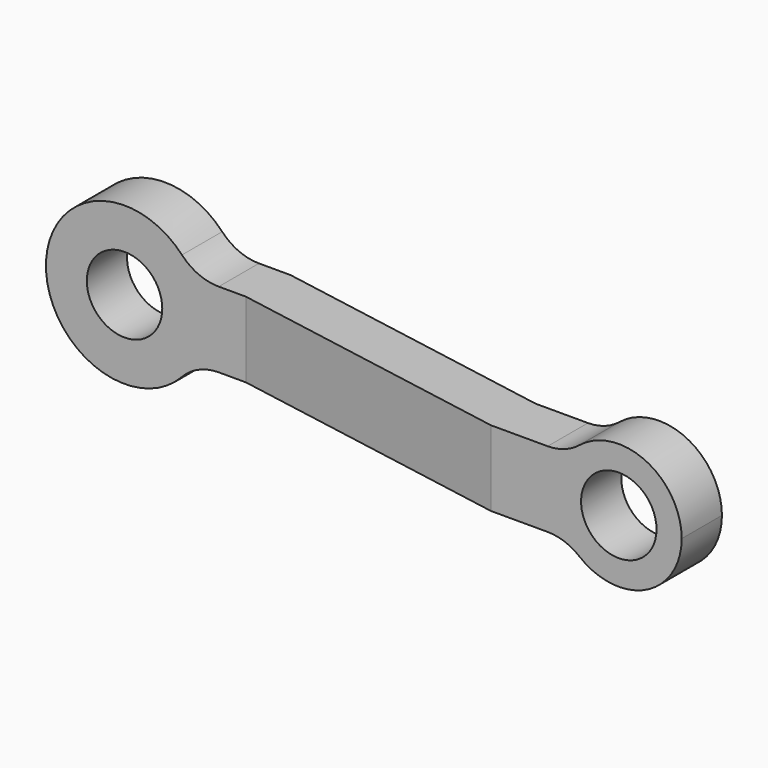
from build123d import *

# Parameters (mm, degrees)
F0_R     = 6
F1_DEPTH = 25
F3_DEPTH = 12.5
F4_R     = 8


with BuildPart() as f1:
    # F0 (on Front) → F1 (new body)
    with BuildSketch(Plane.XZ):
        with BuildLine():
            ThreePointArc((10.965856, -6), (12.110392, -3.096514), (12.5, 0))
            ThreePointArc((12.5, 0), (12.110392, 3.096514), (10.965856, 6))
            ThreePointArc((10.965856, 6), (-12.5, 0), (10.965856, -6))
        make_face()
        Circle(F0_R, mode=Mode.SUBTRACT)
        with BuildLine():
            ThreePointArc((10.965856, 6), (12.110392, 3.096514), (12.5, 0))
            ThreePointArc((12.5, 0), (12.110392, -3.096514), (10.965856, -6))
            Line((10.965856, -6), (77, -6))
            ThreePointArc((77, -6), (75, 0), (77, 6))
            Line((77, 6), (10.965856, 6))
        make_face()
        with BuildLine():
            ThreePointArc((95, 0), (88.162278, 9.486833), (77, 6))
            ThreePointArc((77, 6), (75, 0), (77, -6))
            ThreePointArc((77, -6), (88.162278, -9.486833), (95, 0))
        make_face()
        with Locations((85, 0)):
            Circle(F0_R, mode=Mode.SUBTRACT)
    extrude(amount=F1_DEPTH)

    # F2 (on Top) → F3 (intersect, symmetric)
    with BuildSketch(Plane.XY):
        Polygon((20, 0), (-12.5, 0), (-12.5, -8), (19.300091, -8), (64.670345, -16), (95, -16), (95, -8), (65.370255, -8), align=None)
    extrude(amount=F3_DEPTH, both=True, mode=Mode.INTERSECT)

    # F4
    f4_edges = [f1.edges().sort_by_distance(p)[0] for p in [
        (10.965856, -4, -6),
        (10.965856, -4, 6),
        (77, -12, 6),
        (77, -12, -6),
    ]]
    fillet(f4_edges, radius=F4_R)


solid = f1.part
